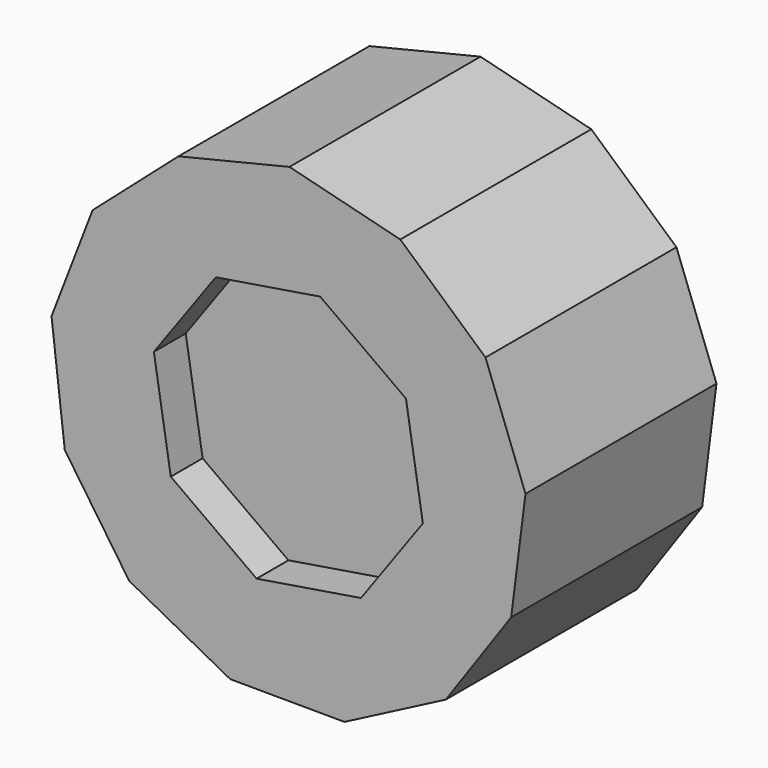
from build123d import *

# Parameters (mm, degrees)
F1_DEPTH = 7.5
F2_DEPTH = 5


with BuildPart() as f1:
    # F0 (on Front) → F1 (new body, symmetric)
    with BuildSketch(Plane.XZ):
        Polygon((3.521169, -14.580856), (9.893902, -11.274338), (14.000062, -5.385005), (14.898975, 1.737968), (12.384714, 8.462793), (7.033263, 13.248895), (0.070577, 14.999834), (-6.908278, 13.314492), (-12.304529, 8.57896), (-14.881961, 1.878092), (-14.050115, -5.253024), (-9.999557, -11.180736), (-3.658221, -14.547076), align=None)
        Polygon((8.450569, -1.998001), (4.562655, -7.388255), (-1.998001, -8.450569), (-7.388255, -4.562655), (-8.450569, 1.998001), (-4.562655, 7.388255), (1.998001, 8.450569), (7.388255, 4.562655), align=None, mode=Mode.SUBTRACT)
    extrude(amount=F1_DEPTH, both=True)

    # F0 (on Front) → F2 (join, symmetric)
    with BuildSketch(Plane.XZ):
        Polygon((-1.998001, -8.450569), (4.562655, -7.388255), (8.450569, -1.998001), (7.388255, 4.562655), (1.998001, 8.450569), (-4.562655, 7.388255), (-8.450569, 1.998001), (-7.388255, -4.562655), align=None)
    extrude(amount=F2_DEPTH, both=True)


solid = f1.part
